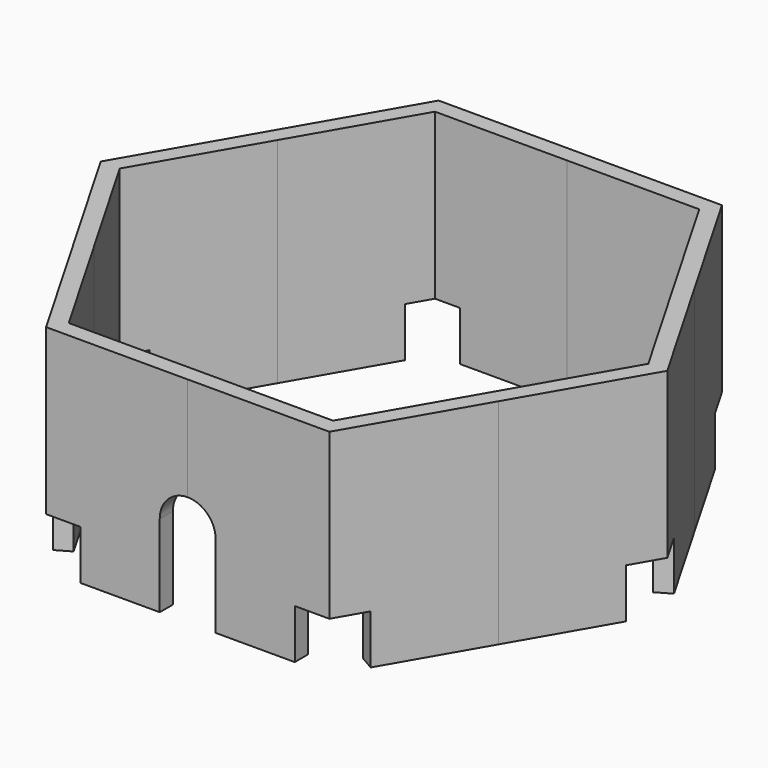
from build123d import *

# Parameters (mm, degrees)
PAD_DEPTH          = 13
POCKET_DEPTH       = 3
POLARPATTERN_COUNT = 6
POCKET001_DEPTH    = 2


with BuildPart() as part:
    # Sketch → Pad (new body)
    with BuildSketch(Plane.XY):
        Polygon((0, 14.9), (8.6025190109, 14.9), (12.9037785164, 7.45), (12.0377531126, 6.95), (8.0251687417, 13.9), (0, 13.9), align=None)
    pad = extrude(amount=PAD_DEPTH)

    # Sketch001 → Pocket (cut)
    with BuildSketch(Plane.XY):
        Polygon((6.5, 11.2583302492), (11.7753229775, 14.3040393903), (6.5, 17.3497485314), align=None)
    pocket = extrude(amount=POCKET_DEPTH, mode=Mode.SUBTRACT)

    # PolarPattern: Pad, Pocket ×6 about axis
    polarpattern_axis = Axis((0, 0, 0), (0, 0, 1))
    for i in range(1, POLARPATTERN_COUNT):
        add(pad.rotate(polarpattern_axis, i * 360 / POLARPATTERN_COUNT))
        add(pocket.rotate(polarpattern_axis, i * 360 / POLARPATTERN_COUNT), mode=Mode.SUBTRACT)

    # Sketch002 (on Face50 of PolarPattern) → Pocket001 (cut)
    with BuildSketch(Plane.XZ.offset(14.9)):
        with BuildLine():
            ThreePointArc((1.7, 5), (0, 6.7), (-1.7, 5))
            Line((-1.7, 5), (-1.7, 0))
            Line((-1.7, 0), (1.7, 0))
            Line((1.7, 0), (1.7, 5))
        make_face()
    extrude(amount=-POCKET001_DEPTH, mode=Mode.SUBTRACT)


solid = part.part
